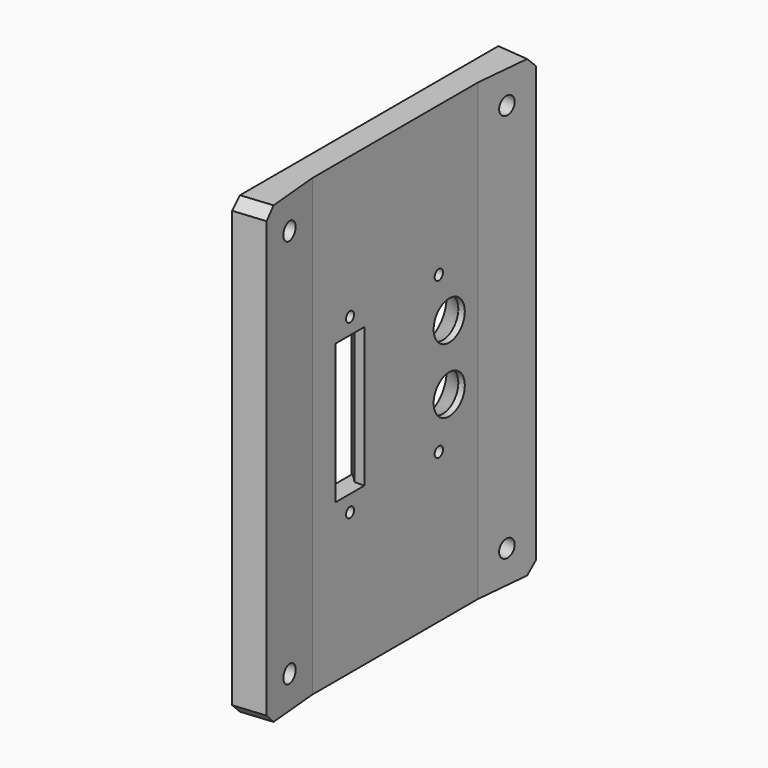
from build123d import *

# Parameters (mm, degrees)
SKETCH021_W      = 59.427886
SKETCH021_H      = 30
PAD012_DEPTH     = 5
FILLET003_R      = 3
PAD011_DEPTH     = 70
SKETCH017_R      = 2.7
POCKET006_DEPTH  = 12
SKETCH018_R      = 5
POCKET007_DEPTH  = 5
CHAMFER008_SIZE  = 3
SKETCH019_R      = 1.55
SKETCH019_W      = 11
SKETCH019_H      = 43
POCKET008_DEPTH  = 20
CHAMFER009_SIZE  = 5
CHAMFER010_SIZE  = 2
SKETCH020_R      = 1.6
SKETCH020_R_2    = 6
POCKET009_DEPTH  = 14
CHAMFER011_SIZE2 = 6
CHAMFER011_SIZE  = 3
CHAMFER012_SIZE  = 0.4


with BuildPart() as obj1:
    # Sketch021 (on Face1 of CopyChamfer012) → Pad012 (new body)
    with BuildSketch(Plane(origin=(-79.911931, 0, 0), x_dir=(0, -1, 0), z_dir=(-1, 0, 0))):
        with Locations((0, 52)):
            Rectangle(SKETCH021_W, SKETCH021_H)
    extrude(amount=-PAD012_DEPTH)

    # Mirrored007: obj1 across XY


with BuildPart() as obj1_1:
    add(obj1.part)
    add(obj1.part.mirror(Plane.XY))

    # Fillet003
    fillet003_edges = [obj1_1.edges().sort_by_distance(p)[0] for p in [
        (-77.411931, -29.713943, 67),
        (-77.411931, -29.713943, 37),
        (-77.411931, 29.713943, 67),
        (-77.411931, 29.713943, -37),
        (-77.411931, -29.713943, -37),
        (-77.411931, 29.713943, 37),
        (-77.411931, 29.713943, -67),
        (-77.411931, -29.713943, -67),
    ]]
    fillet(fillet003_edges, radius=FILLET003_R)


with BuildPart() as cut:
    # Sketch016 (on XY_Plane010 of Origin020) → Pad011 (new body, symmetric)
    with BuildSketch(Plane.XY):
        Polygon((-70.037094, -51.784164), (-71.911931, -31.872233), (-71.911931, 31.872233), (-70.037094, 51.784164), (-79.911931, 52.713943), (-79.911931, -52.713943), align=None)
    extrude(amount=PAD011_DEPTH, both=True)

    # Sketch017 (on Face1 of Pad011) → Pocket006 (cut)
    with BuildSketch(Plane(origin=(-74.254608, -6.991552, 0), x_dir=(-0.093742, 0.995597, 0), z_dir=(0.995597, 0.093742, 0))):
        with Locations((-34.990726, 60)):
            Circle(SKETCH017_R)
        with Locations((-34.990726, -60)):
            Circle(SKETCH017_R)
    pocket006 = extrude(amount=-POCKET006_DEPTH, mode=Mode.SUBTRACT)

    # Sketch018 (on Face1 of Pocket006) → Pocket007 (cut)
    with BuildSketch(Plane(origin=(-80.228187, -7.554003, 0), x_dir=(-0.093742, 0.995597, 0), z_dir=(0.995597, 0.093742, 0))):
        with Locations((-34.990726, 60)):
            Circle(SKETCH018_R)
        with Locations((-34.990726, -60)):
            Circle(SKETCH018_R)
    pocket007 = extrude(amount=-POCKET007_DEPTH, mode=Mode.SUBTRACT)

    # Mirrored006: Pocket006, Pocket007 across XZ
    add(pocket006.mirror(Plane.XZ), mode=Mode.SUBTRACT)
    add(pocket007.mirror(Plane.XZ), mode=Mode.SUBTRACT)

    # Chamfer008
    chamfer008_edges = [cut.edges().sort_by_distance(p)[0] for p in [
        (-74.974512, 52.249054, 70),
        (-74.974512, 52.249054, -70),
        (-74.974512, -52.249054, 70),
        (-74.974512, -52.249054, -70),
    ]]
    chamfer(chamfer008_edges, length=CHAMFER008_SIZE)

    # Sketch019 (on Face7 of Chamfer008) → Pocket008 (cut)
    with BuildSketch(Plane.YZ.offset(-71.911931)):
        with Locations((-17.372233, 26.5)):
            Circle(SKETCH019_R)
        with Locations((-17.372233, -26.5)):
            Circle(SKETCH019_R)
        with Locations((-17.372233, 0)):
            Rectangle(SKETCH019_W, SKETCH019_H)
    extrude(amount=-POCKET008_DEPTH, mode=Mode.SUBTRACT)

    # Chamfer009
    chamfer009_edges = [cut.edges().sort_by_distance(p)[0] for p in [
        (-79.911931, -11.872233, 0),
        (-79.911931, -22.872233, 0),
    ]]
    chamfer(chamfer009_edges, length=CHAMFER009_SIZE)

    # Chamfer010
    chamfer010_edges = [cut.edges().sort_by_distance(p)[0] for p in [
        (-79.911931, -17.372233, 21.5),
        (-79.911931, -17.372233, -21.5),
    ]]
    chamfer(chamfer010_edges, length=CHAMFER010_SIZE)

    # Sketch020 (on Face24 of Chamfer010) → Pocket009 (cut)
    with BuildSketch(Plane.YZ.offset(-71.911931)):
        with Locations((16.8, 24)):
            Circle(SKETCH020_R)
        with Locations((16.8, -24)):
            Circle(SKETCH020_R)
        with Locations((20.8, 10)):
            Circle(SKETCH020_R_2)
        with Locations((20.8, -10)):
            Circle(SKETCH020_R_2)
    extrude(amount=-POCKET009_DEPTH, mode=Mode.SUBTRACT)

    # Chamfer011
    chamfer011_edges = [cut.edges().sort_by_distance(p)[0] for p in [
        (-79.911931, 14.8, 10),
        (-79.911931, 14.8, -10),
    ]]
    chamfer011_side = cut.faces().sort_by_distance((-79.911931, 0.943229, 0))[0]
    chamfer(chamfer011_edges, length=CHAMFER011_SIZE, length2=CHAMFER011_SIZE2, reference=chamfer011_side)

    # Chamfer012
    chamfer012_edges = [cut.edges().sort_by_distance(p)[0] for p in [
        (-79.911931, 15.2, -24),
        (-79.911931, 15.2, 24),
        (-79.911931, -18.922233, 26.5),
        (-79.911931, -18.922233, -26.5),
    ]]
    chamfer(chamfer012_edges, length=CHAMFER012_SIZE)

    # Cut: cut obj1
    add(obj1_1.part, mode=Mode.SUBTRACT)


solid = cut.part
